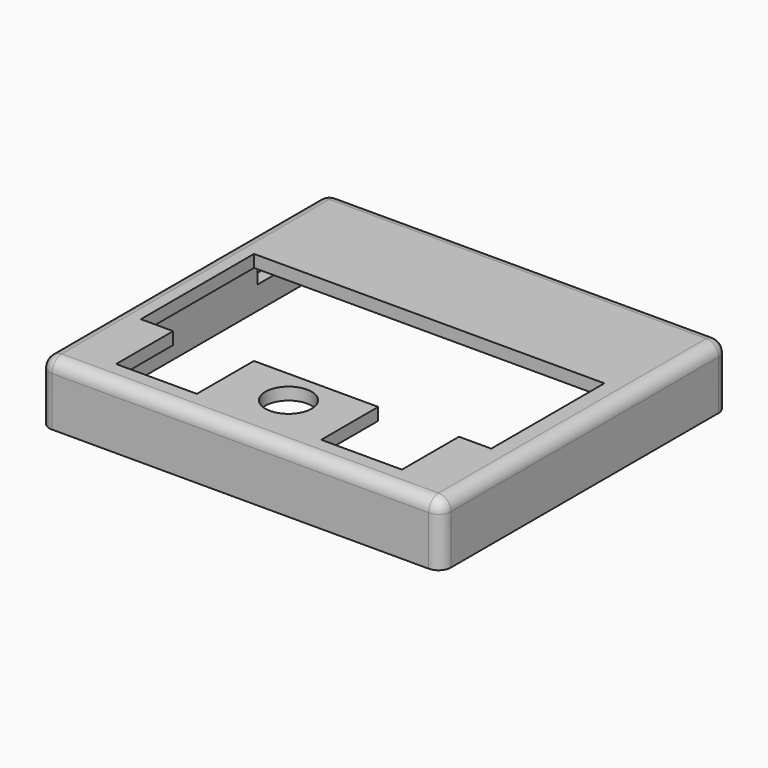
from build123d import *

# Parameters (mm, degrees)
SKETCH_W        = 107
SKETCH_H        = 95
PAD_DEPTH       = 7
THICKNESS_T     = 3.5
SKETCH001_R     = 6.56
POCKET_DEPTH    = 5
SKETCH002_W     = 12.979027
SKETCH002_H     = 7.757147
POCKET001_DEPTH = 5


with BuildPart() as part:
    # Sketch → Pad (new body, symmetric)
    with BuildSketch(Plane.XY):
        with Locations((146.021704, -118.608821)):
            Rectangle(SKETCH_W, SKETCH_H)
    extrude(amount=PAD_DEPTH, both=True)

    # Thickness
    thickness_openings = [part.faces().sort_by_distance(p)[0] for p in [
        (146.021704, -118.608821, -7),
    ]]
    offset(amount=THICKNESS_T, openings=thickness_openings)

    # Sketch001 (on Face18 of Thickness) → Pocket (cut)
    with BuildSketch(Plane.XY.offset(10.5)):
        with Locations((145.68, -152.08)):
            Circle(SKETCH001_R)
        Polygon((95.8, -101.98), (195.32, -101.98), (195.32, -142.15), (186.15, -142.15), (186.15, -162.39), (163.22, -162.39), (163.22, -142.15), (127.9, -142.15), (127.9, -162.39), (104.97, -162.39), (104.97, -142.15), (95.8, -142.15), align=None)
    extrude(amount=-POCKET_DEPTH, mode=Mode.SUBTRACT)

    # Sketch002 (on Face11 of Pocket) → Pocket001 (cut)
    with BuildSketch(Plane(origin=(89.021704, 0, 0), x_dir=(0, -1, 0), z_dir=(-1, 0, 0))):
        with Locations((90.140796, 3.473584)):
            Rectangle(SKETCH002_W, SKETCH002_H)
    extrude(amount=-POCKET001_DEPTH, mode=Mode.SUBTRACT)


solid = part.part
